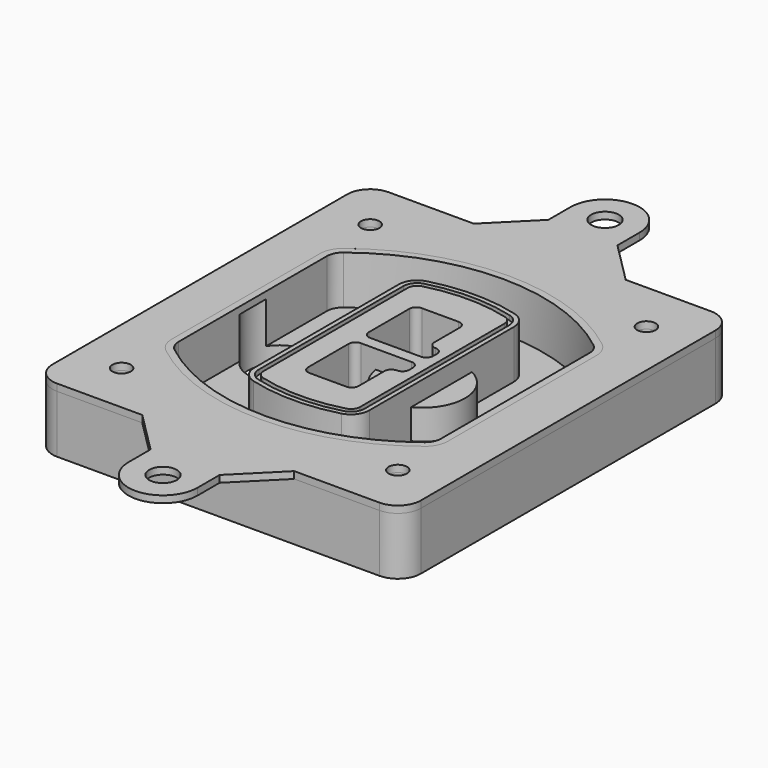
from build123d import *

# Parameters (mm, degrees)
F0_R      = 4
F1_DEPTH  = 25
F2_DEPTH  = 3
F3_DEPTH  = 18
F5_DEPTH  = 21
F6_DEPTH  = 2
F8_DEPTH  = 20
F9_DEPTH  = 16
F10_DEPTH = 25
F11_R     = 6
F11_R_2   = 4
F12_DEPTH = 3


with BuildPart() as f1:
    # F0 (on Top) → F1 (new body)
    with BuildSketch(Plane.XY):
        with BuildLine():
            ThreePointArc((-80, -80), (-77.0710678119, -87.0710678119), (-70, -90))
            Line((-70, -90), (70, -90))
            ThreePointArc((70, -90), (77.0710678119, -87.0710678119), (80, -80))
            Line((80, -80), (80, 80))
            ThreePointArc((80, 80), (77.0710678119, 87.0710678119), (70, 90))
            Line((70, 90), (-70, 90))
            ThreePointArc((-70, 90), (-77.0710678119, 87.0710678119), (-80, 80))
            Line((-80, 80), (-80, -80))
        make_face()
        with Locations((-60, -67.5)):
            Circle(F0_R, mode=Mode.SUBTRACT)
        with Locations((60, -67.5)):
            Circle(F0_R, mode=Mode.SUBTRACT)
        with Locations((-60, 67.5)):
            Circle(F0_R, mode=Mode.SUBTRACT)
        with BuildLine():
            ThreePointArc((-64, 40.2934422872), (-62.5820384798, 46.4328484224), (-58.6153846154, 51.3286200352))
            ThreePointArc((-58.6153846154, 51.3286200352), (0, 71.5), (58.6153846154, 51.3286200352))
            ThreePointArc((58.6153846154, 51.3286200352), (62.5820384798, 46.4328484224), (64, 40.2934422872))
            Line((64, 40.2934422872), (64, -40.2934422872))
            ThreePointArc((64, -40.2934422872), (62.5820384798, -46.4328484224), (58.6153846154, -51.3286200352))
            ThreePointArc((58.6153846154, -51.3286200352), (0, -71.5), (-58.6153846154, -51.3286200352))
            ThreePointArc((-58.6153846154, -51.3286200352), (-62.5820384798, -46.4328484224), (-64, -40.2934422872))
            Line((-64, -40.2934422872), (-64, 40.2934422872))
        make_face(mode=Mode.SUBTRACT)
        with Locations((60, 67.5)):
            Circle(F0_R, mode=Mode.SUBTRACT)
        with BuildLine():
            ThreePointArc((58.6153846154, 51.3286200352), (0, 71.5), (-58.6153846154, 51.3286200352))
            ThreePointArc((-58.6153846154, 51.3286200352), (-62.5820384798, 46.4328484224), (-64, 40.2934422872))
            Line((-64, 40.2934422872), (-64, -40.2934422872))
            ThreePointArc((-64, -40.2934422872), (-62.5820384798, -46.4328484224), (-58.6153846154, -51.3286200352))
            ThreePointArc((-58.6153846154, -51.3286200352), (0, -71.5), (58.6153846154, -51.3286200352))
            ThreePointArc((58.6153846154, -51.3286200352), (62.5820384798, -46.4328484224), (64, -40.2934422872))
            Line((64, -40.2934422872), (64, 40.2934422872))
            ThreePointArc((64, 40.2934422872), (62.5820384798, 46.4328484224), (58.6153846154, 51.3286200352))
        make_face()
        with BuildLine():
            Line((-60, -40.2934422872), (-60, 40.2934422872))
            ThreePointArc((-60, 40.2934422872), (-58.9871703427, 44.6787323838), (-56.1538461538, 48.1757121072))
            ThreePointArc((-56.1538461538, 48.1757121072), (0, 67.5), (56.1538461538, 48.1757121072))
            ThreePointArc((56.1538461538, 48.1757121072), (58.9871703427, 44.6787323838), (60, 40.2934422872))
            Line((60, 40.2934422872), (60, -40.2934422872))
            ThreePointArc((60, -40.2934422872), (58.9871703427, -44.6787323838), (56.1538461538, -48.1757121072))
            ThreePointArc((56.1538461538, -48.1757121072), (0, -67.5), (-56.1538461538, -48.1757121072))
            ThreePointArc((-56.1538461538, -48.1757121072), (-58.9871703427, -44.6787323838), (-60, -40.2934422872))
        make_face(mode=Mode.SUBTRACT)
        with BuildLine():
            ThreePointArc((-56.1538461538, 48.1757121072), (-58.9871703427, 44.6787323838), (-60, 40.2934422872))
            Line((-60, 40.2934422872), (-60, -40.2934422872))
            ThreePointArc((-60, -40.2934422872), (-58.9871703427, -44.6787323838), (-56.1538461538, -48.1757121072))
            ThreePointArc((-56.1538461538, -48.1757121072), (0, -67.5), (56.1538461538, -48.1757121072))
            ThreePointArc((56.1538461538, -48.1757121072), (58.9871703427, -44.6787323838), (60, -40.2934422872))
            Line((60, -40.2934422872), (60, 40.2934422872))
            ThreePointArc((60, 40.2934422872), (58.9871703427, 44.6787323838), (56.1538461538, 48.1757121072))
            ThreePointArc((56.1538461538, 48.1757121072), (0, 67.5), (-56.1538461538, 48.1757121072))
        make_face()
        with BuildLine():
            ThreePointArc((54.3076923077, 45.8110311612), (56.2910192399, 43.3631453548), (57, 40.2934422872))
            Line((57, 40.2934422872), (57, -40.2934422872))
            ThreePointArc((57, -40.2934422872), (56.2910192399, -43.3631453548), (54.3076923077, -45.8110311612))
            ThreePointArc((54.3076923077, -45.8110311612), (0, -64.5), (-54.3076923077, -45.8110311612))
            ThreePointArc((-54.3076923077, -45.8110311612), (-56.2910192399, -43.3631453548), (-57, -40.2934422872))
            Line((-57, -40.2934422872), (-57, 40.2934422872))
            ThreePointArc((-57, 40.2934422872), (-56.2910192399, 43.3631453548), (-54.3076923077, 45.8110311612))
            ThreePointArc((-54.3076923077, 45.8110311612), (0, 64.5), (54.3076923077, 45.8110311612))
        make_face(mode=Mode.SUBTRACT)
        with BuildLine():
            Line((57, -40.2934422872), (57, 40.2934422872))
            ThreePointArc((57, 40.2934422872), (56.2910192399, 43.3631453548), (54.3076923077, 45.8110311612))
            ThreePointArc((54.3076923077, 45.8110311612), (0, 64.5), (-54.3076923077, 45.8110311612))
            ThreePointArc((-54.3076923077, 45.8110311612), (-56.2910192399, 43.3631453548), (-57, 40.2934422872))
            Line((-57, 40.2934422872), (-57, -40.2934422872))
            ThreePointArc((-57, -40.2934422872), (-56.2910192399, -43.3631453548), (-54.3076923077, -45.8110311612))
            ThreePointArc((-54.3076923077, -45.8110311612), (0, -64.5), (54.3076923077, -45.8110311612))
            ThreePointArc((54.3076923077, -45.8110311612), (56.2910192399, -43.3631453548), (57, -40.2934422872))
        make_face()
    extrude(amount=-F1_DEPTH)

    # F0 (on Top) → F2 (join)
    with BuildSketch(Plane.XY):
        with BuildLine():
            ThreePointArc((-56.1538461538, 48.1757121072), (-58.9871703427, 44.6787323838), (-60, 40.2934422872))
            Line((-60, 40.2934422872), (-60, -40.2934422872))
            ThreePointArc((-60, -40.2934422872), (-58.9871703427, -44.6787323838), (-56.1538461538, -48.1757121072))
            ThreePointArc((-56.1538461538, -48.1757121072), (0, -67.5), (56.1538461538, -48.1757121072))
            ThreePointArc((56.1538461538, -48.1757121072), (58.9871703427, -44.6787323838), (60, -40.2934422872))
            Line((60, -40.2934422872), (60, 40.2934422872))
            ThreePointArc((60, 40.2934422872), (58.9871703427, 44.6787323838), (56.1538461538, 48.1757121072))
            ThreePointArc((56.1538461538, 48.1757121072), (0, 67.5), (-56.1538461538, 48.1757121072))
        make_face()
        with BuildLine():
            ThreePointArc((54.3076923077, 45.8110311612), (56.2910192399, 43.3631453548), (57, 40.2934422872))
            Line((57, 40.2934422872), (57, -40.2934422872))
            ThreePointArc((57, -40.2934422872), (56.2910192399, -43.3631453548), (54.3076923077, -45.8110311612))
            ThreePointArc((54.3076923077, -45.8110311612), (0, -64.5), (-54.3076923077, -45.8110311612))
            ThreePointArc((-54.3076923077, -45.8110311612), (-56.2910192399, -43.3631453548), (-57, -40.2934422872))
            Line((-57, -40.2934422872), (-57, 40.2934422872))
            ThreePointArc((-57, 40.2934422872), (-56.2910192399, 43.3631453548), (-54.3076923077, 45.8110311612))
            ThreePointArc((-54.3076923077, 45.8110311612), (0, 64.5), (54.3076923077, 45.8110311612))
        make_face(mode=Mode.SUBTRACT)
    extrude(amount=F2_DEPTH)

    # F0 (on Top) → F3 (cut)
    with BuildSketch(Plane.XY):
        with BuildLine():
            Line((57, -40.2934422872), (57, 40.2934422872))
            ThreePointArc((57, 40.2934422872), (56.2910192399, 43.3631453548), (54.3076923077, 45.8110311612))
            ThreePointArc((54.3076923077, 45.8110311612), (0, 64.5), (-54.3076923077, 45.8110311612))
            ThreePointArc((-54.3076923077, 45.8110311612), (-56.2910192399, 43.3631453548), (-57, 40.2934422872))
            Line((-57, 40.2934422872), (-57, -40.2934422872))
            ThreePointArc((-57, -40.2934422872), (-56.2910192399, -43.3631453548), (-54.3076923077, -45.8110311612))
            ThreePointArc((-54.3076923077, -45.8110311612), (0, -64.5), (54.3076923077, -45.8110311612))
            ThreePointArc((54.3076923077, -45.8110311612), (56.2910192399, -43.3631453548), (57, -40.2934422872))
        make_face()
    extrude(amount=-F3_DEPTH, mode=Mode.SUBTRACT)

    # F4 (on face) → F5 (join, through all)
    with BuildSketch(Plane.XY.offset(3)):
        with BuildLine():
            ThreePointArc((-25, -39.2465276821), (-23.3511545998, -44.1109737193), (-19.0842911877, -46.9702398883))
            ThreePointArc((-19.0842911877, -46.9702398883), (0, -49.5), (19.0842911877, -46.9702398883))
            ThreePointArc((19.0842911877, -46.9702398883), (23.3511545998, -44.1109737193), (25, -39.2465276821))
            Line((25, -39.2465276821), (25, 39.2465276821))
            ThreePointArc((25, 39.2465276821), (23.3511545998, 44.1109737193), (19.0842911877, 46.9702398883))
            ThreePointArc((19.0842911877, 46.9702398883), (0, 49.5), (-19.0842911877, 46.9702398883))
            ThreePointArc((-19.0842911877, 46.9702398883), (-23.3511545998, 44.1109737193), (-25, 39.2465276821))
            Line((-25, 39.2465276821), (-25, -39.2465276821))
        make_face()
        with BuildLine():
            ThreePointArc((18.5632183908, 45.0393118368), (21.7633659499, 42.89486221), (23, 39.2465276821))
            Line((23, 39.2465276821), (23, -39.2465276821))
            ThreePointArc((23, -39.2465276821), (21.7633659499, -42.89486221), (18.5632183908, -45.0393118368))
            ThreePointArc((18.5632183908, -45.0393118368), (0, -47.5), (-18.5632183908, -45.0393118368))
            ThreePointArc((-18.5632183908, -45.0393118368), (-21.7633659499, -42.89486221), (-23, -39.2465276821))
            Line((-23, -39.2465276821), (-23, 39.2465276821))
            ThreePointArc((-23, 39.2465276821), (-21.7633659499, 42.89486221), (-18.5632183908, 45.0393118368))
            ThreePointArc((-18.5632183908, 45.0393118368), (0, 47.5), (18.5632183908, 45.0393118368))
        make_face(mode=Mode.SUBTRACT)
        with BuildLine():
            Line((23, -39.2465276821), (23, 39.2465276821))
            ThreePointArc((23, 39.2465276821), (21.7633659499, 42.89486221), (18.5632183908, 45.0393118368))
            ThreePointArc((18.5632183908, 45.0393118368), (0, 47.5), (-18.5632183908, 45.0393118368))
            ThreePointArc((-18.5632183908, 45.0393118368), (-21.7633659499, 42.89486221), (-23, 39.2465276821))
            Line((-23, 39.2465276821), (-23, -39.2465276821))
            ThreePointArc((-23, -39.2465276821), (-21.7633659499, -42.89486221), (-18.5632183908, -45.0393118368))
            ThreePointArc((-18.5632183908, -45.0393118368), (0, -47.5), (18.5632183908, -45.0393118368))
            ThreePointArc((18.5632183908, -45.0393118368), (21.7633659499, -42.89486221), (23, -39.2465276821))
        make_face()
        with BuildLine():
            ThreePointArc((18.0421455939, 43.1083837852), (20.1755772999, 41.6787507007), (21, 39.2465276821))
            Line((21, 39.2465276821), (21, -39.2465276821))
            ThreePointArc((21, -39.2465276821), (20.1755772999, -41.6787507007), (18.0421455939, -43.1083837852))
            ThreePointArc((18.0421455939, -43.1083837852), (0, -45.5), (-18.0421455939, -43.1083837852))
            ThreePointArc((-18.0421455939, -43.1083837852), (-20.1755772999, -41.6787507007), (-21, -39.2465276821))
            Line((-21, -39.2465276821), (-21, 39.2465276821))
            ThreePointArc((-21, 39.2465276821), (-20.1755772999, 41.6787507007), (-18.0421455939, 43.1083837852))
            ThreePointArc((-18.0421455939, 43.1083837852), (0, 45.5), (18.0421455939, 43.1083837852))
        make_face(mode=Mode.SUBTRACT)
        with BuildLine():
            Line((21, -39.2465276821), (21, 39.2465276821))
            ThreePointArc((21, 39.2465276821), (20.1755772999, 41.6787507007), (18.0421455939, 43.1083837852))
            ThreePointArc((18.0421455939, 43.1083837852), (0, 45.5), (-18.0421455939, 43.1083837852))
            ThreePointArc((-18.0421455939, 43.1083837852), (-20.1755772999, 41.6787507007), (-21, 39.2465276821))
            Line((-21, 39.2465276821), (-21, -39.2465276821))
            ThreePointArc((-21, -39.2465276821), (-20.1755772999, -41.6787507007), (-18.0421455939, -43.1083837852))
            ThreePointArc((-18.0421455939, -43.1083837852), (0, -45.5), (18.0421455939, -43.1083837852))
            ThreePointArc((18.0421455939, -43.1083837852), (20.1755772999, -41.6787507007), (21, -39.2465276821))
        make_face()
        with BuildLine():
            Line((-8, -2.5), (14, -2.5))
            ThreePointArc((14, -2.5), (16.1213203436, -3.3786796564), (17, -5.5))
            Line((17, -5.5), (17, -7.5))
            ThreePointArc((17, -7.5), (16.1213203436, -9.6213203436), (14, -10.5))
            ThreePointArc((14, -10.5), (11.8786796564, -11.3786796564), (11, -13.5))
            Line((11, -13.5), (11, -27.5))
            ThreePointArc((11, -27.5), (10.1213203436, -29.6213203436), (8, -30.5))
            Line((8, -30.5), (-8, -30.5))
            ThreePointArc((-8, -30.5), (-10.1213203436, -29.6213203436), (-11, -27.5))
            Line((-11, -27.5), (-11, -5.5))
            ThreePointArc((-11, -5.5), (-10.1213203436, -3.3786796564), (-8, -2.5))
        make_face(mode=Mode.SUBTRACT)
        with BuildLine():
            ThreePointArc((-8, 2.5), (-10.1213203436, 3.3786796564), (-11, 5.5))
            Line((-11, 5.5), (-11, 27.5))
            ThreePointArc((-11, 27.5), (-10.1213203436, 29.6213203436), (-8, 30.5))
            Line((-8, 30.5), (8, 30.5))
            ThreePointArc((8, 30.5), (10.1213203436, 29.6213203436), (11, 27.5))
            Line((11, 27.5), (11, 13.5))
            ThreePointArc((11, 13.5), (11.8786796564, 11.3786796564), (14, 10.5))
            ThreePointArc((14, 10.5), (16.1213203436, 9.6213203436), (17, 7.5))
            Line((17, 7.5), (17, 5.5))
            ThreePointArc((17, 5.5), (16.1213203436, 3.3786796564), (14, 2.5))
            Line((14, 2.5), (-8, 2.5))
        make_face(mode=Mode.SUBTRACT)
    extrude(amount=-F5_DEPTH)

    # F4 (on face) → F6 (cut)
    with BuildSketch(Plane.XY.offset(3)):
        with BuildLine():
            Line((23, -39.2465276821), (23, 39.2465276821))
            ThreePointArc((23, 39.2465276821), (21.7633659499, 42.89486221), (18.5632183908, 45.0393118368))
            ThreePointArc((18.5632183908, 45.0393118368), (0, 47.5), (-18.5632183908, 45.0393118368))
            ThreePointArc((-18.5632183908, 45.0393118368), (-21.7633659499, 42.89486221), (-23, 39.2465276821))
            Line((-23, 39.2465276821), (-23, -39.2465276821))
            ThreePointArc((-23, -39.2465276821), (-21.7633659499, -42.89486221), (-18.5632183908, -45.0393118368))
            ThreePointArc((-18.5632183908, -45.0393118368), (0, -47.5), (18.5632183908, -45.0393118368))
            ThreePointArc((18.5632183908, -45.0393118368), (21.7633659499, -42.89486221), (23, -39.2465276821))
        make_face()
        with BuildLine():
            ThreePointArc((18.0421455939, 43.1083837852), (20.1755772999, 41.6787507007), (21, 39.2465276821))
            Line((21, 39.2465276821), (21, -39.2465276821))
            ThreePointArc((21, -39.2465276821), (20.1755772999, -41.6787507007), (18.0421455939, -43.1083837852))
            ThreePointArc((18.0421455939, -43.1083837852), (0, -45.5), (-18.0421455939, -43.1083837852))
            ThreePointArc((-18.0421455939, -43.1083837852), (-20.1755772999, -41.6787507007), (-21, -39.2465276821))
            Line((-21, -39.2465276821), (-21, 39.2465276821))
            ThreePointArc((-21, 39.2465276821), (-20.1755772999, 41.6787507007), (-18.0421455939, 43.1083837852))
            ThreePointArc((-18.0421455939, 43.1083837852), (0, 45.5), (18.0421455939, 43.1083837852))
        make_face(mode=Mode.SUBTRACT)
    extrude(amount=-F6_DEPTH, mode=Mode.SUBTRACT)

    # F7 (on face) → F8 (join)
    with BuildSketch(Plane(origin=(0, 0, -25), x_dir=(1, 0, 0), z_dir=(0, 0, -1))):
        with BuildLine():
            ThreePointArc((3.28842436, 0), (16.7567035675, 13.4682792075), (30.224982775, 0))
            Line((30.224982775, 0), (35.224982775, 0))
            ThreePointArc((35.224982775, 0), (16.7567035675, 18.4682792075), (-1.71157564, 0))
            Line((-1.71157564, 0), (3.28842436, 0))
        make_face()
        with BuildLine():
            Line((3.28842436, 0), (30.224982775, 0))
            ThreePointArc((30.224982775, 0), (16.7567035675, 13.4682792075), (3.28842436, 0))
        make_face()
        with BuildLine():
            ThreePointArc((3.28842436, 0), (16.7567035675, -13.4682792075), (30.224982775, 0))
            Line((30.224982775, 0), (3.28842436, 0))
        make_face()
        with BuildLine():
            Line((35.224982775, 0), (30.224982775, 0))
            ThreePointArc((30.224982775, 0), (16.7567035675, -13.4682792075), (3.28842436, 0))
            Line((3.28842436, 0), (-1.71157564, 0))
            ThreePointArc((-1.71157564, 0), (16.7567035675, -18.4682792075), (35.224982775, 0))
        make_face()
    extrude(amount=-F8_DEPTH)

    # F7 (on face) → F9 (cut)
    with BuildSketch(Plane(origin=(0, 0, -25), x_dir=(1, 0, 0), z_dir=(0, 0, -1))):
        with BuildLine():
            Line((3.28842436, 0), (30.224982775, 0))
            ThreePointArc((30.224982775, 0), (16.7567035675, 13.4682792075), (3.28842436, 0))
        make_face()
        with BuildLine():
            ThreePointArc((3.28842436, 0), (16.7567035675, -13.4682792075), (30.224982775, 0))
            Line((30.224982775, 0), (3.28842436, 0))
        make_face()
    extrude(amount=-F9_DEPTH, mode=Mode.SUBTRACT)

    # F7 (on face) → F10 (cut)
    with BuildSketch(Plane(origin=(0, 0, -25), x_dir=(1, 0, 0), z_dir=(0, 0, -1))):
        with BuildLine():
            Line((-59.0318229325, 0), (-32.0952645175, 0))
            ThreePointArc((-32.0952645175, 0), (-45.563543725, 13.4682792075), (-59.0318229325, 0))
        make_face()
        with BuildLine():
            ThreePointArc((-59.0318229325, 0), (-45.563543725, -13.4682792075), (-32.0952645175, 0))
            Line((-32.0952645175, 0), (-59.0318229325, 0))
        make_face()
    extrude(amount=-F10_DEPTH, mode=Mode.SUBTRACT)


with BuildPart() as f12:
    # F11 (on face) → F12 (new body, through all)
    with BuildSketch(Plane.XY):
        with BuildLine():
            ThreePointArc((15, 120), (0, 135), (-15, 120))
            Line((-15, 120), (-15, 108))
            Line((-15, 108), (-33, 90))
            Line((-33, 90), (33, 90))
            Line((33, 90), (15, 108))
            Line((15, 108), (15, 120))
        make_face()
        with Locations((0, 120)):
            Circle(F11_R, mode=Mode.SUBTRACT)
        with BuildLine():
            Line((33, 90), (-33, 90))
            Line((-33, 90), (-70, 90))
            ThreePointArc((-70, 90), (-77.0710678119, 87.0710678119), (-80, 80))
            Line((-80, 80), (-80, -80))
            ThreePointArc((-80, -80), (-77.0710678119, -87.0710678119), (-70, -90))
            Line((-70, -90), (-33, -90))
            Line((-33, -90), (33, -90))
            Line((33, -90), (70, -90))
            ThreePointArc((70, -90), (77.0710678119, -87.0710678119), (80, -80))
            Line((80, -80), (80, 80))
            ThreePointArc((80, 80), (77.0710678119, 87.0710678119), (70, 90))
            Line((70, 90), (33, 90))
        make_face()
        with Locations((-60, -67.5)):
            Circle(F11_R_2, mode=Mode.SUBTRACT)
        with Locations((60, -67.5)):
            Circle(F11_R_2, mode=Mode.SUBTRACT)
        with Locations((-60, 67.5)):
            Circle(F11_R_2, mode=Mode.SUBTRACT)
        with BuildLine():
            ThreePointArc((-60, 40.2934422872), (-58.9871703427, 44.6787323838), (-56.1538461538, 48.1757121072))
            ThreePointArc((-56.1538461538, 48.1757121072), (0, 67.5), (56.1538461538, 48.1757121072))
            ThreePointArc((56.1538461538, 48.1757121072), (58.9871703427, 44.6787323838), (60, 40.2934422872))
            Line((60, 40.2934422872), (60, -40.2934422872))
            ThreePointArc((60, -40.2934422872), (58.9871703427, -44.6787323838), (56.1538461538, -48.1757121072))
            ThreePointArc((56.1538461538, -48.1757121072), (0, -67.5), (-56.1538461538, -48.1757121072))
            ThreePointArc((-56.1538461538, -48.1757121072), (-58.9871703427, -44.6787323838), (-60, -40.2934422872))
            Line((-60, -40.2934422872), (-60, 40.2934422872))
        make_face(mode=Mode.SUBTRACT)
        with Locations((60, 67.5)):
            Circle(F11_R_2, mode=Mode.SUBTRACT)
        with BuildLine():
            Line((33, -90), (-33, -90))
            Line((-33, -90), (-15, -108))
            Line((-15, -108), (-15, -120))
            ThreePointArc((-15, -120), (0, -135), (15, -120))
            Line((15, -120), (15, -108))
            Line((15, -108), (33, -90))
        make_face()
        with Locations((0, -120)):
            Circle(F11_R, mode=Mode.SUBTRACT)
    extrude(amount=F12_DEPTH)


solid = Compound([f1.part, f12.part])
